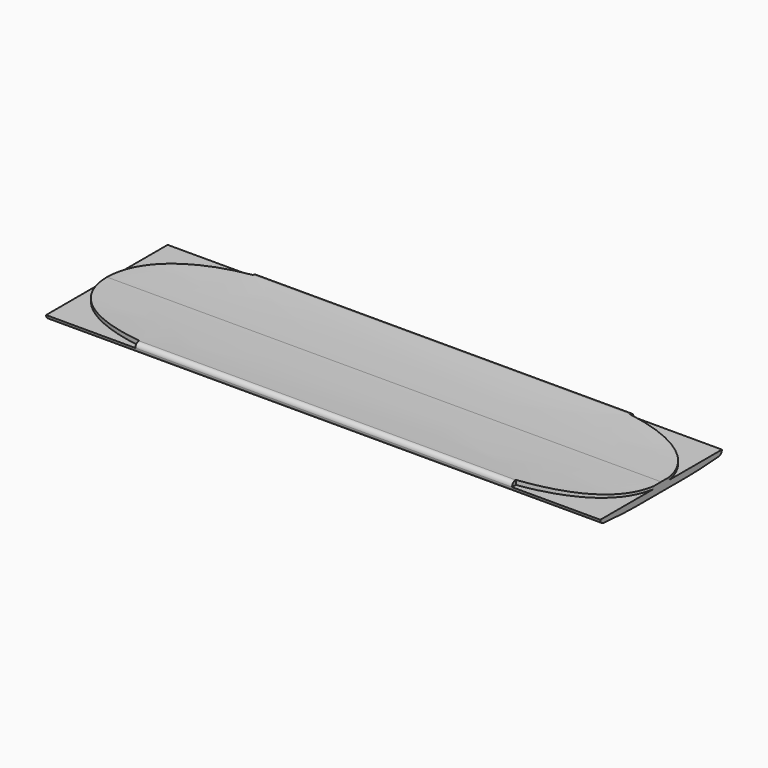
from build123d import *

# Parameters (mm, degrees)
F1_DEPTH = 787.4
F3_DEPTH = 6.351


with BuildPart() as f1:
    # F0 (on Right) → F1 (new body)
    with BuildSketch(Plane.YZ):
        with BuildLine():
            ThreePointArc((101.6, -6.35), (106.090128, -4.490128), (107.95, 0))
            ThreePointArc((107.95, 0), (106.090128, 4.490128), (101.6, 6.35))
            add(Edge.make_bspline(
                [(101.6, 6.35), (68.379156, 3.407657), (34.558281, 3.670045), (0, 3.56268)],
                knots=[0, 0, 0, 0, 101.638227, 101.638227, 101.638227, 101.638227], degree=3))
            add(Edge.make_bspline(
                [(-101.6, 6.35), (-68.379156, 3.407657), (-34.558281, 3.670045), (0, 3.56268)],
                knots=[0, 0, 0, 0, 101.638227, 101.638227, 101.638227, 101.638227], degree=3))
            ThreePointArc((-101.6, 6.35), (-106.090128, 4.490128), (-107.95, 0))
            ThreePointArc((-107.95, 0), (-106.090128, -4.490128), (-101.6, -6.35))
            add(Edge.make_bspline(
                [(-101.6, -6.35), (-75.339661, -8.603188), (-49.851095, -9.40976), (-23.786126, -9.092749)],
                knots=[0, 0, 0, 0, 78.069154, 78.069154, 78.069154, 78.069154], degree=3))
            add(Edge.make_bspline(
                [(-23.786126, -9.092749), (-15.922226, -8.997105), (-8.005859, -8.799187), (0, -8.507866)],
                knots=[78.069154, 78.069154, 78.069154, 78.069154, 101.622913, 101.622913, 101.622913, 101.622913], degree=3))
            add(Edge.make_bspline(
                [(23.786126, -9.092749), (15.922226, -8.997105), (8.005859, -8.799187), (0, -8.507866)],
                knots=[78.069154, 78.069154, 78.069154, 78.069154, 101.622913, 101.622913, 101.622913, 101.622913], degree=3))
            add(Edge.make_bspline(
                [(101.6, -6.35), (75.339661, -8.603188), (49.851095, -9.40976), (23.786126, -9.092749)],
                knots=[0, 0, 0, 0, 78.069154, 78.069154, 78.069154, 78.069154], degree=3))
        make_face()
        with BuildLine():
            Line((-23.786126, -9.092749), (23.786126, -9.092749))
            add(Edge.make_bspline(
                [(23.786126, -9.092749), (15.922226, -8.997105), (8.005859, -8.799187), (0, -8.507866)],
                knots=[78.069154, 78.069154, 78.069154, 78.069154, 101.622913, 101.622913, 101.622913, 101.622913], degree=3))
            add(Edge.make_bspline(
                [(-23.786126, -9.092749), (-15.922226, -8.997105), (-8.005859, -8.799187), (0, -8.507866)],
                knots=[78.069154, 78.069154, 78.069154, 78.069154, 101.622913, 101.622913, 101.622913, 101.622913], degree=3))
        make_face()
    extrude(amount=F1_DEPTH)

    # F2 (on Top) → F3 (cut, through all)
    with BuildSketch(Plane.XY):
        with BuildLine():
            add(Edge.make_bspline(
                [(788.772941, 0), (787.562578, 65.186068), (722.990483, 92.539564), (661.950991, 101.050094)],
                knots=[0, 0, 0, 0, 162.15711, 162.15711, 162.15711, 162.15711], degree=3))
            add(Edge.make_bspline(
                [(788.772941, 0), (787.562578, -65.186068), (722.990483, -92.539564), (661.950991, -101.050094)],
                knots=[0, 0, 0, 0, 162.15711, 162.15711, 162.15711, 162.15711], degree=3))
            Line((661.950991, -101.050094), (661.950991, -210.459784))
            Line((661.950991, -210.459784), (925.617337, -210.459784))
            Line((925.617337, -210.459784), (925.617337, 174.559593))
            Line((925.617337, 174.559593), (661.950991, 174.559593))
            Line((661.950991, 174.559593), (661.950991, 101.050094))
        make_face()
        with BuildLine():
            add(Edge.make_bspline(
                [(0, 0), (1.210363, -65.186068), (65.782458, -92.539564), (126.82195, -101.050094)],
                knots=[0, 0, 0, 0, 162.15711, 162.15711, 162.15711, 162.15711], degree=3))
            add(Edge.make_bspline(
                [(0, 0), (1.210363, 65.186068), (65.782458, 92.539564), (126.82195, 101.050094)],
                knots=[0, 0, 0, 0, 162.15711, 162.15711, 162.15711, 162.15711], degree=3))
            Line((126.82195, 101.050094), (126.82195, 193.435043))
            Line((126.82195, 193.435043), (-168.913588, 193.435043))
            Line((-168.913588, 193.435043), (-168.913588, -217.446953))
            Line((-168.913588, -217.446953), (126.82195, -217.446953))
            Line((126.82195, -217.446953), (126.82195, -101.050094))
        make_face()
    extrude(amount=F3_DEPTH, mode=Mode.SUBTRACT)


solid = f1.part
